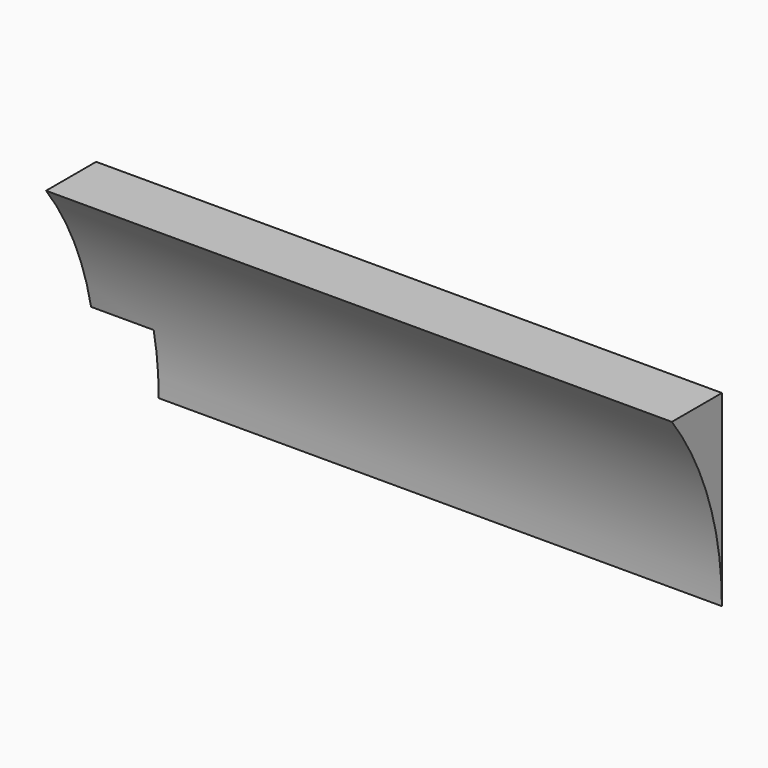
from build123d import *

# Parameters (mm, degrees)
BOX231_W          = 10
BOX231_H          = 10
BOX231_DEPTH      = 4
CYLINDER041_R     = 15
CYLINDER041_DEPTH = 32
BOX072_W          = 30
BOX072_H          = 6
BOX072_DEPTH      = 9


with BuildPart() as cube219:
    # Box231 → Box231 (new body)
    with BuildSketch(Plane(origin=(81, 40, -16), x_dir=(1, 0, 0), z_dir=(0, 0, 1))):
        with Locations((5, 5)):
            Rectangle(BOX231_W, BOX231_H)
    extrude(amount=BOX231_DEPTH)


with BuildPart() as cylinder128:
    # Cylinder041 → Cylinder041 (new body)
    with BuildSketch(Plane(origin=(0, 31, -15), x_dir=(0, 0, -1), z_dir=(1, 0, 0))):
        Circle(CYLINDER041_R)
    extrude(amount=CYLINDER041_DEPTH)


with BuildPart() as cut124:
    # Box072 → Box072 (new body)
    with BuildSketch(Plane(origin=(1, 40, -15), x_dir=(1, 0, 0), z_dir=(0, 0, 1))):
        with Locations((15, 3)):
            Rectangle(BOX072_W, BOX072_H)
    extrude(amount=BOX072_DEPTH)

    # Cut123: cut Cylinder128
    add(cylinder128.part, mode=Mode.SUBTRACT)


with BuildPart() as cut124_1:
    # Cut123 placement: moved
    add(cut124.part.moved(Location((87, 0, 0))))

    # Cut124: cut Cube219
    add(cube219.part, mode=Mode.SUBTRACT)


solid = cut124_1.part
